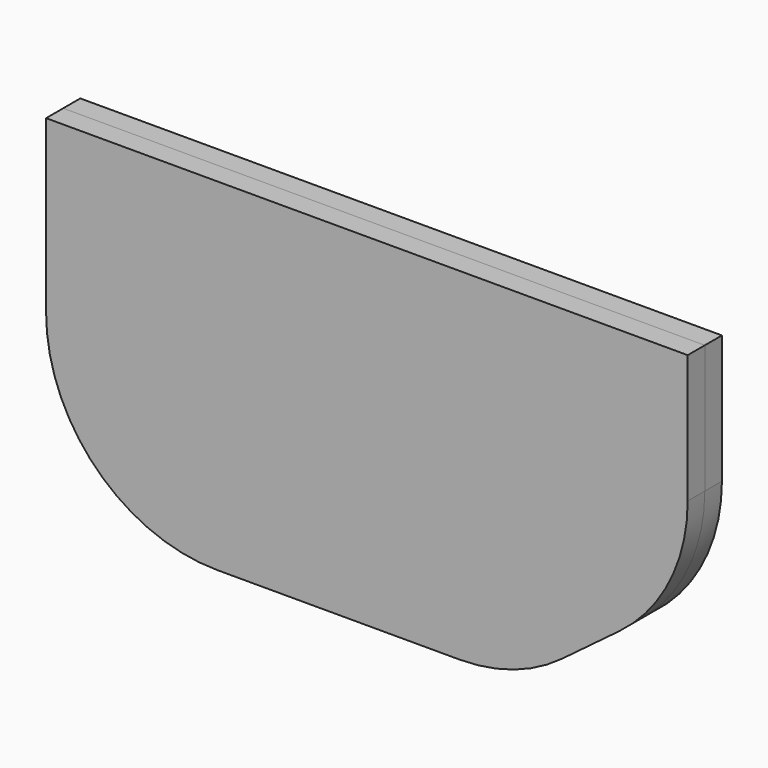
from build123d import *

# Parameters (mm, degrees)
F1_DEPTH = 1.27
F2_R     = 10.16


with BuildPart() as f1:
    # F0 (on Front) → F1 (new body)
    with BuildSketch(Plane.XZ):
        Polygon((-9.442768, 29.819457), (-47.542768, 29.819457), (-47.542768, 9.499457), (-19.602768, 9.499457), (-9.442768, 17.119457), align=None)
    extrude(amount=F1_DEPTH)

    # F2
    f2_edges = [f1.edges().sort_by_distance(p)[0] for p in [
        (-47.542768, -0.635, 9.499457),
        (-19.602768, -0.635, 9.499457),
        (-9.442768, -0.635, 17.119457),
    ]]
    fillet(f2_edges, radius=F2_R)


with BuildPart() as f3_1:
    # F3: instance of F1
    add(f1.part.mirror(Plane.XZ))


solid = Compound([f1.part, f3_1.part])
